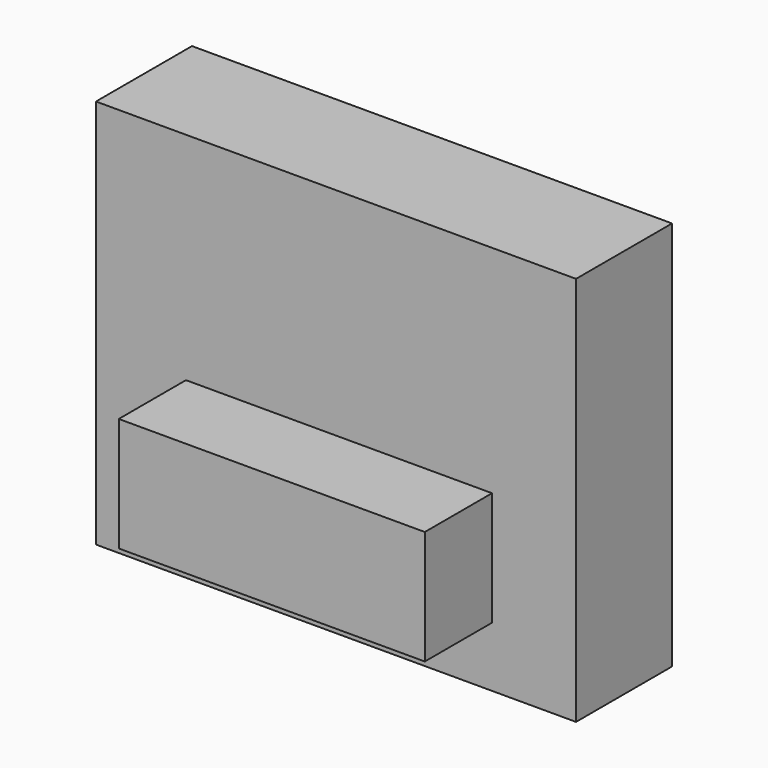
from build123d import *

# Parameters (mm, degrees)
SKETCH_W     = 8
SKETCH_H     = 6.5
PAD_DEPTH    = 2
SKETCH001_W  = 5.1
SKETCH001_H  = 1.9
PAD001_DEPTH = 1.4


with BuildPart() as part:
    # Sketch → Pad (new body)
    with BuildSketch(Plane.XZ):
        with Locations((4, 3.25)):
            Rectangle(SKETCH_W, SKETCH_H)
    extrude(amount=PAD_DEPTH)

    # Sketch001 (on Face6 of Pad) → Pad001 (join)
    with BuildSketch(Plane.XZ.offset(2)):
        with Locations((4.05, 1.95)):
            Rectangle(SKETCH001_W, SKETCH001_H)
    extrude(amount=PAD001_DEPTH)


solid = part.part
